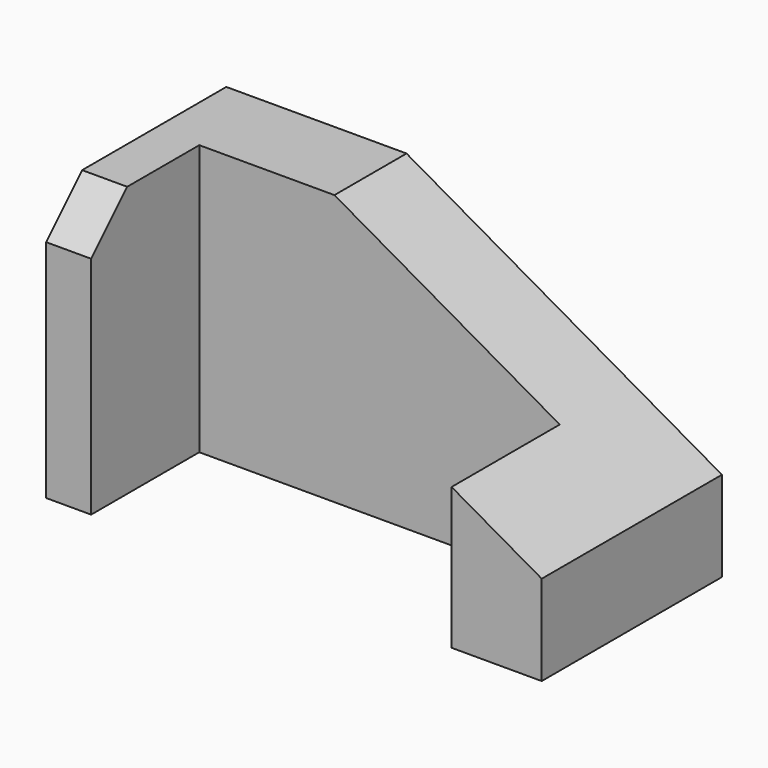
from build123d import *

# Parameters (mm, degrees)
F1_DEPTH = 60
F2_SIZE2 = 70
F2_SIZE  = 40
F3_SIZE  = 10


with BuildPart() as f1:
    # F0 (on Top) → F1 (new body)
    with BuildSketch(Plane.XY):
        Polygon((55, -25), (55, 25), (-55, 25), (-55, -25), (-45, -25), (-45, 5), (35, 5), (35, -25), align=None)
    extrude(amount=F1_DEPTH)

    # F2
    f2_edges = [f1.edges().sort_by_distance(p)[0] for p in [
        (55, 0, 60),
    ]]
    chamfer(f2_edges, length=F2_SIZE, length2=F2_SIZE2)

    # F3
    f3_edges = [f1.edges().sort_by_distance(p)[0] for p in [
        (-50, -25, 60),
    ]]
    chamfer(f3_edges, length=F3_SIZE)


solid = f1.part
